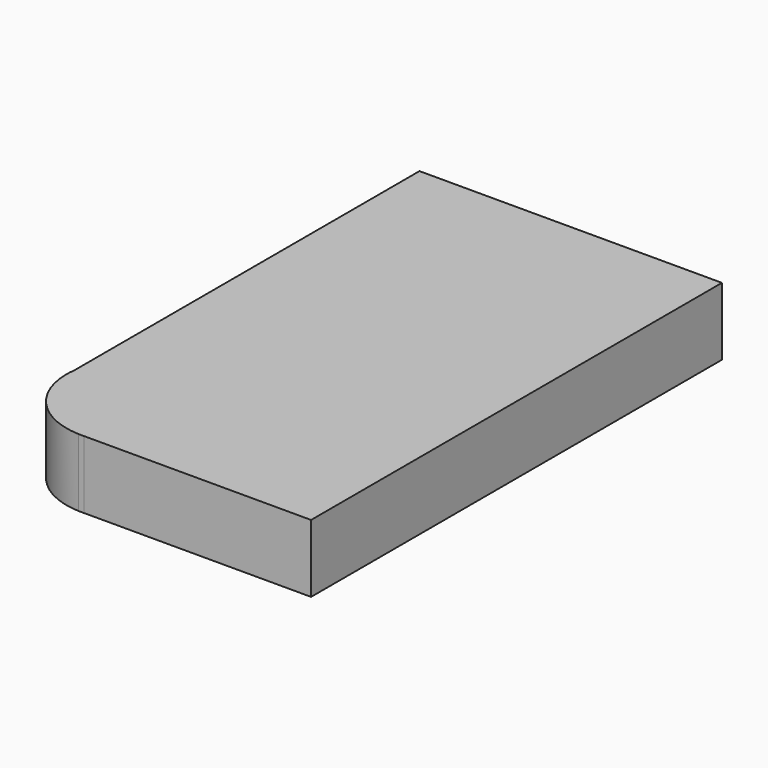
from build123d import *

# Parameters (mm, degrees)
F1_DEPTH = 17.526


with BuildPart() as f1:
    # F0 (on Top) → F1 (new body)
    with BuildSketch(Plane.XY):
        with BuildLine():
            Line((35.852786, 61.245181), (-42.400509, 61.245181))
            Line((-42.400509, 61.245181), (-42.400509, -50.225839))
            Line((-42.400509, -50.225839), (-42.400509, -55.154173))
            ThreePointArc((-42.400509, -55.154173), (-36.369463, -66.701296), (-24.308801, -71.625724))
            Line((-24.308801, -71.625724), (-22.917036, -71.625724))
            Line((-22.917036, -71.625724), (35.852786, -71.625724))
            Line((35.852786, -71.625724), (35.852786, 61.245181))
        make_face()
        with BuildLine():
            Line((-42.400509, -55.154173), (-42.400509, -50.225839))
            ThreePointArc((-42.400509, -50.225839), (-42.561419, -52.690006), (-42.400509, -55.154173))
        make_face()
        with BuildLine():
            ThreePointArc((-24.308801, -71.625724), (-23.612918, -71.638507), (-22.917036, -71.625724))
            Line((-22.917036, -71.625724), (-24.308801, -71.625724))
        make_face()
    extrude(amount=F1_DEPTH)


solid = f1.part
